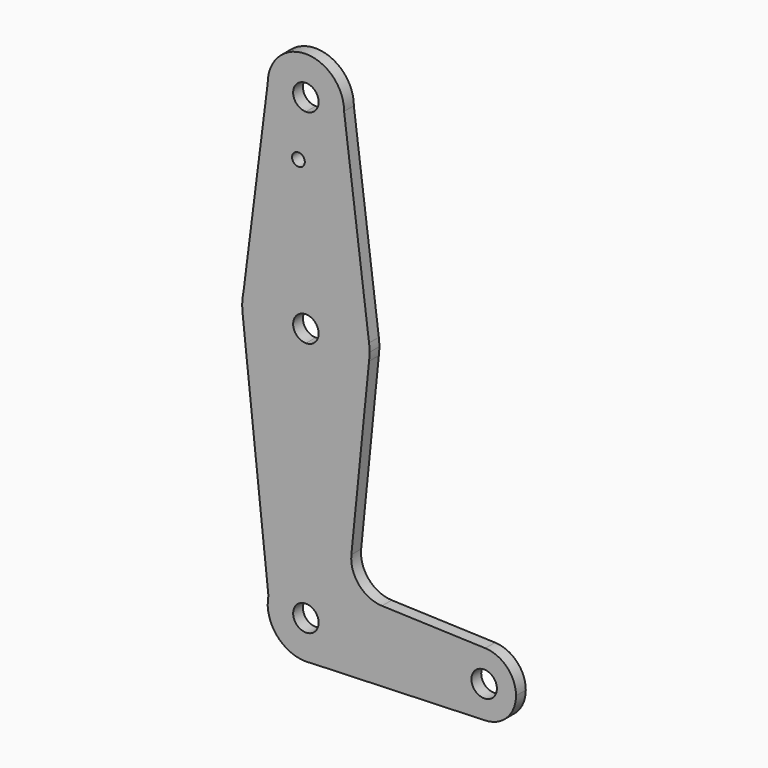
from build123d import *

# Parameters (mm, degrees)
F0_R     = 1.5875
F1_DEPTH = 3.048


with BuildPart() as f1:
    # F0 (on Front) → F1 (new body)
    with BuildSketch(Plane.XZ):
        with BuildLine():
            Line((-61.725705862, 13.8753158972), (-61.377784833, 16.6288328844))
            ThreePointArc((-61.377784833, 16.6288328844), (-61.6120350772, 15.2596923081), (-61.725705862, 13.8753158972))
        make_face()
        with BuildLine():
            Line((-44.8074049261, -59.6967809855), (-46.2504336099, -59.7474594223))
            ThreePointArc((-46.2504336099, -59.7474594223), (-45.527957576, -59.7495036264), (-44.8074049261, -59.6967809855))
        make_face()
        with BuildLine():
            Line((-45.8622646537, -40.7053721651), (-45.8622646537, -2.6053721651))
            ThreePointArc((-45.8622646537, -2.6053721651), (-56.4710719792, 1.4599355388), (-61.6464221521, 11.5737513462))
            Line((-61.6464221521, 11.5737513462), (-55.2052117038, -48.377006195))
            ThreePointArc((-55.2052117038, -48.377006195), (-51.90677928, -42.8690225651), (-45.8622646537, -40.7053721651))
        make_face()
        with BuildLine():
            Line((-9.3497646537, -50.2303721651), (-36.3372646537, -50.2303721651))
            ThreePointArc((-36.3372646537, -50.2303721651), (-38.7639140035, -56.5816746337), (-44.8074049261, -59.6967809855))
            Line((-44.8074049261, -59.6967809855), (-1.1336755481, -58.1629817206))
            ThreePointArc((-1.1336755481, -58.1629817206), (-6.9255488485, -55.9406789552), (-9.3497646537, -50.2303721651))
        make_face()
        with BuildLine():
            ThreePointArc((-55.38721667, 64.0393939721), (-52.5867589639, 57.3237549283), (-45.8622646537, 54.5446278349))
            ThreePointArc((-45.8622646537, 54.5446278349), (-39.1270725629, 57.3344357441), (-36.3372646537, 64.0696278349))
            ThreePointArc((-36.3372646537, 64.0696278349), (-45.8773816041, 73.594615839), (-55.38721667, 64.0393939721))
        make_face()
        with BuildLine():
            ThreePointArc((-42.6872646537, 64.0696278349), (-43.6172006234, 61.8245638047), (-45.8622646537, 60.8946278349))
            ThreePointArc((-45.8622646537, 60.8946278349), (-48.1073286839, 66.3146918652), (-42.6872646537, 64.0696278349))
        make_face(mode=Mode.SUBTRACT)
        with BuildLine():
            ThreePointArc((-1.1287822737, -42.2979359699), (-6.9237873498, -44.518365178), (-9.3497646537, -50.2303721651))
            ThreePointArc((-9.3497646537, -50.2303721651), (-6.9255488485, -55.9406789552), (-1.1336755481, -58.1629817206))
            ThreePointArc((-1.1336755481, -58.1629817206), (4.2980421365, -55.7436563598), (6.5252353463, -50.2303721651))
            ThreePointArc((6.5252353463, -50.2303721651), (4.2997423334, -44.718849469), (-1.1287822737, -42.2979359699))
        make_face()
        with BuildLine():
            ThreePointArc((1.7627353463, -50.2303721651), (-1.4122646537, -53.4053721651), (-4.5872646537, -50.2303721651))
            ThreePointArc((-4.5872646537, -50.2303721651), (-1.4122646537, -47.0553721651), (1.7627353463, -50.2303721651))
        make_face(mode=Mode.SUBTRACT)
        with BuildLine():
            ThreePointArc((-30.114807749, 15.2779171653), (-35.3709817988, 25.1838466117), (-45.8622646537, 29.1446278349))
            Line((-45.8622646537, 29.1446278349), (-45.8622646537, 16.4446278349))
            ThreePointArc((-45.8622646537, 16.4446278349), (-43.6172006234, 15.5146918652), (-42.6872646537, 13.2696278349))
            ThreePointArc((-42.6872646537, 13.2696278349), (-43.6172006234, 11.0245638047), (-45.8622646537, 10.0946278349))
            Line((-45.8622646537, 10.0946278349), (-45.8622646537, -2.6053721651))
            ThreePointArc((-45.8622646537, -2.6053721651), (-35.3709817988, 1.3554090582), (-30.114807749, 11.2613385046))
            ThreePointArc((-30.114807749, 11.2613385046), (-30.0191825141, 12.2634601954), (-29.9872646537, 13.2696278349))
            ThreePointArc((-29.9872646537, 13.2696278349), (-30.0191825141, 14.2757954745), (-30.114807749, 15.2779171653))
        make_face()
        with BuildLine():
            Line((-45.8622646537, 16.4446278349), (-45.8622646537, 29.1446278349))
            ThreePointArc((-45.8622646537, 29.1446278349), (-55.8294168257, 25.6256588554), (-61.377784833, 16.6288328844))
            Line((-61.377784833, 16.6288328844), (-61.725705862, 13.8753158972))
            ThreePointArc((-61.725705862, 13.8753158972), (-61.7278540163, 12.7230940501), (-61.6464221521, 11.5737513462))
            ThreePointArc((-61.6464221521, 11.5737513462), (-56.4710719792, 1.4599355388), (-45.8622646537, -2.6053721651))
            Line((-45.8622646537, -2.6053721651), (-45.8622646537, 10.0946278349))
            ThreePointArc((-45.8622646537, 10.0946278349), (-49.0372646537, 13.2696278349), (-45.8622646537, 16.4446278349))
        make_face()
        with BuildLine():
            ThreePointArc((-30.114807749, 11.2613385046), (-35.3709817988, 1.3554090582), (-45.8622646537, -2.6053721651))
            Line((-45.8622646537, -2.6053721651), (-45.8622646537, -40.7053721651))
            ThreePointArc((-45.8622646537, -40.7053721651), (-39.1270725629, -43.4951800743), (-36.3372646537, -50.2303721651))
            Line((-36.3372646537, -50.2303721651), (-9.3497646537, -50.2303721651))
            ThreePointArc((-9.3497646537, -50.2303721651), (-6.9237873498, -44.518365178), (-1.1287822737, -42.2979359699))
            Line((-1.1287822737, -42.2979359699), (-26.8963448487, -41.377078409))
            ThreePointArc((-26.8963448487, -41.377078409), (-32.6025096857, -38.6592225812), (-34.5228297903, -32.637642378))
            Line((-34.5228297903, -32.637642378), (-30.114807749, 11.2613385046))
        make_face()
        with BuildLine():
            Line((-45.8622646537, -47.0553721651), (-45.8622646537, -40.7053721651))
            ThreePointArc((-45.8622646537, -40.7053721651), (-51.90677928, -42.8690225651), (-55.2052117038, -48.377006195))
            ThreePointArc((-55.2052117038, -48.377006195), (-53.3452758344, -56.1236029148), (-46.2504336099, -59.7474594223))
            Line((-46.2504336099, -59.7474594223), (-44.8074049261, -59.6967809855))
            ThreePointArc((-44.8074049261, -59.6967809855), (-38.7639140035, -56.5816746337), (-36.3372646537, -50.2303721651))
            Line((-36.3372646537, -50.2303721651), (-42.6872646537, -50.2303721651))
            ThreePointArc((-42.6872646537, -50.2303721651), (-48.1073286839, -52.4754361953), (-45.8622646537, -47.0553721651))
        make_face()
        with BuildLine():
            Line((-45.8622646537, 29.1446278349), (-45.8622646537, 54.5446278349))
            ThreePointArc((-45.8622646537, 54.5446278349), (-52.5867589639, 57.3237549283), (-55.38721667, 64.0393939721))
            Line((-55.38721667, 64.0393939721), (-61.377784833, 16.6288328844))
            ThreePointArc((-61.377784833, 16.6288328844), (-55.8294168257, 25.6256588554), (-45.8622646537, 29.1446278349))
        make_face()
        with Locations((-47.7207154036, 49.7948278349)):
            Circle(F0_R, mode=Mode.SUBTRACT)
        with BuildLine():
            ThreePointArc((-36.3372646537, 64.0696278349), (-39.1270725629, 57.3344357441), (-45.8622646537, 54.5446278349))
            Line((-45.8622646537, 54.5446278349), (-45.8622646537, 29.1446278349))
            ThreePointArc((-45.8622646537, 29.1446278349), (-35.3709817988, 25.1838466117), (-30.114807749, 15.2779171653))
            Line((-30.114807749, 15.2779171653), (-36.3372646537, 64.0696278349))
        make_face()
        with BuildLine():
            ThreePointArc((-36.3372646537, -50.2303721651), (-39.1270725629, -43.4951800743), (-45.8622646537, -40.7053721651))
            Line((-45.8622646537, -40.7053721651), (-45.8622646537, -47.0553721651))
            ThreePointArc((-45.8622646537, -47.0553721651), (-43.6172006234, -47.9853081348), (-42.6872646537, -50.2303721651))
            Line((-42.6872646537, -50.2303721651), (-36.3372646537, -50.2303721651))
        make_face()
    extrude(amount=-F1_DEPTH)


solid = f1.part
